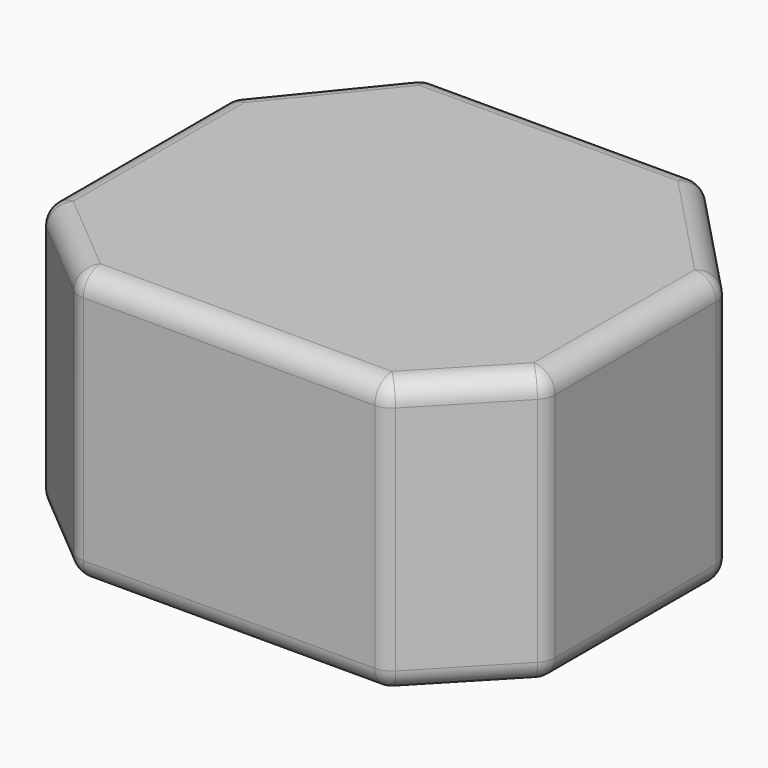
from build123d import *

# Parameters (mm, degrees)
F1_DEPTH = 65.278
F2_R     = 5.08


with BuildPart() as f1:
    # F0 (on Top) → F1 (new body)
    with BuildSketch(Plane.XY):
        Polygon((33.223204, 29.108401), (-32.918401, 29.108401), (-56.692801, 0), (-56.692801, -55.016398), (-33.8328, -74.218802), (39.624002, -74.218802), (60.960002, -51.968399), (60.960002, 0), align=None)
    extrude(amount=F1_DEPTH)

    # F2
    f2_edges = [f1.edges().sort_by_distance(p)[0] for p in [
        (33.223204, 29.108401, 32.639),
        (-32.918401, 29.108401, 32.639),
        (0.152402, 29.108401, 0),
        (0.152402, 29.108401, 65.278),
        (60.960002, 0, 32.639),
        (47.091603, 14.554201, 0),
        (47.091603, 14.554201, 65.278),
        (-56.692801, 0, 32.639),
        (-44.805601, 14.554201, 0),
        (-44.805601, 14.554201, 65.278),
        (-56.692801, -55.016398, 32.639),
        (-56.692801, -27.508199, 0),
        (-56.692801, -27.508199, 65.278),
        (-33.8328, -74.218802, 32.639),
        (-45.262801, -64.6176, 0),
        (-45.262801, -64.6176, 65.278),
        (39.624002, -74.218802, 32.639),
        (2.895601, -74.218802, 0),
        (2.895601, -74.218802, 65.278),
        (60.960002, -51.968399, 32.639),
        (50.292002, -63.093601, 0),
        (50.292002, -63.093601, 65.278),
        (60.960002, -25.9842, 0),
        (60.960002, -25.9842, 65.278),
    ]]
    fillet(f2_edges, radius=F2_R)


solid = f1.part
